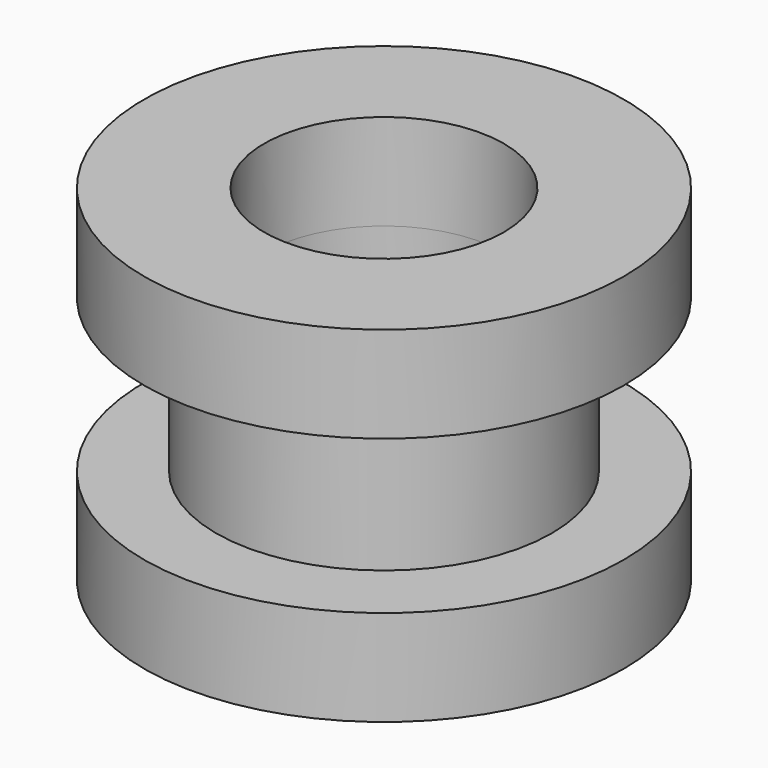
from build123d import *

# Parameters (mm, degrees)
F0_R     = 2.5
F0_R_2   = 1.75
F0_R_3   = 1.25
F1_DEPTH = 1
F2_DEPTH = 0.8


with BuildPart() as f1:
    # F0 (on Top) → F1 (new body)
    with BuildSketch(Plane.XY):
        Circle(F0_R)
        Circle(F0_R_2, mode=Mode.SUBTRACT)
        Circle(F0_R_2)
        Circle(F0_R_3, mode=Mode.SUBTRACT)
    extrude(amount=F1_DEPTH)

    # F0 (on Top) → F2 (join)
    with BuildSketch(Plane.XY):
        Circle(F0_R_2)
        Circle(F0_R_3, mode=Mode.SUBTRACT)
    extrude(amount=-F2_DEPTH)

    # F3: F1 across face


with BuildPart() as f1_1:
    add(f1.part)
    add(f1.part.mirror(Plane(origin=(0, 0, -0.8), x_dir=(1, 0, 0), z_dir=(0, 0, -1))))


solid = f1_1.part
